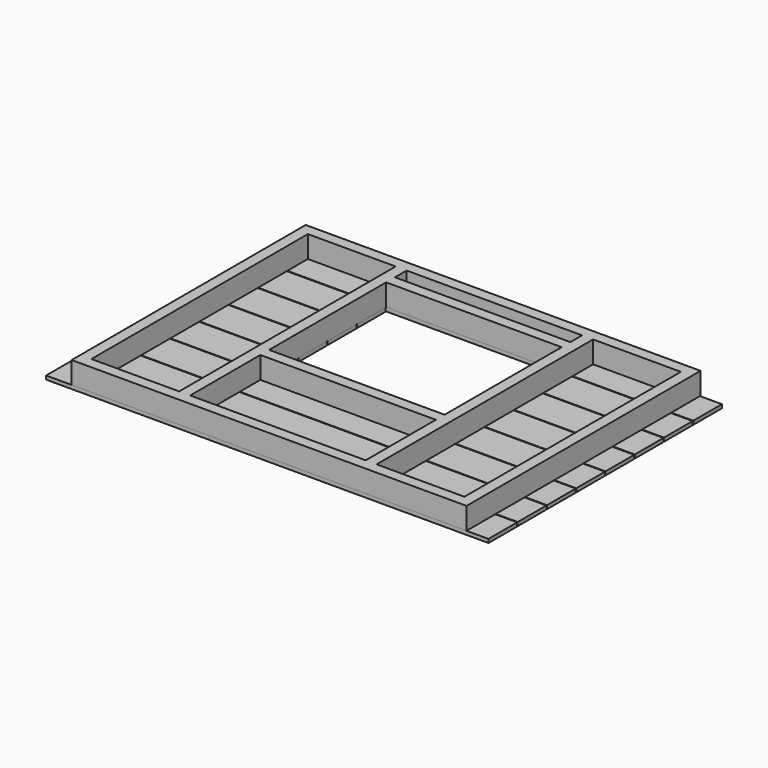
from build123d import *

# Parameters (mm, degrees)
F0_W     = 60.96
F0_H     = 3.81
F0_W_2   = 3.81
F0_H_2   = 93.98
F1_DEPTH = 7.62
F2_W     = 153.67
F2_H     = 12.446
F3_DEPTH = 1.27
F0_H_3   = 50.8
F4_DEPTH = 25.4


with BuildPart() as f1:
    # F0 (on Top) → F1 (new body)
    with BuildSketch(Plane.XY):
        Polygon((0, 101.6), (0, 97.79), (3.81, 97.79), (34.29, 97.79), (38.1, 97.79), (99.06, 97.79), (102.87, 97.79), (133.35, 97.79), (137.16, 97.79), (137.16, 101.6), align=None)
        Polygon((34.29, 97.79), (34.29, 3.81), (38.1, 3.81), (38.1, 34.29), (38.1, 38.1), (38.1, 88.9), (38.1, 92.71), (38.1, 97.79), align=None)
        with Locations((68.58, 90.805)):
            Rectangle(F0_W, F0_H)
        Polygon((99.06, 3.81), (102.87, 3.81), (102.87, 97.79), (99.06, 97.79), (99.06, 92.71), (99.06, 88.9), (99.06, 38.1), (99.06, 34.29), align=None)
        with Locations((135.255, 50.8)):
            Rectangle(F0_W_2, F0_H_2)
        with Locations((68.58, 36.195)):
            Rectangle(F0_W, F0_H)
        with Locations((1.905, 50.8)):
            Rectangle(F0_W_2, F0_H_2)
        Polygon((0, 3.81), (0, 0), (137.16, 0), (137.16, 3.81), (133.35, 3.81), (102.87, 3.81), (99.06, 3.81), (38.1, 3.81), (34.29, 3.81), (3.81, 3.81), align=None)
    extrude(amount=F1_DEPTH)


with BuildPart() as f3:
    # F2 (on Top) → F3 (new body)
    with BuildSketch(Plane.XY):
        with Locations((67.945, 6.223)):
            Rectangle(F2_W, F2_H)
        with Locations((67.945, 18.923)):
            Rectangle(F2_W, F2_H)
        with Locations((67.945, 31.623)):
            Rectangle(F2_W, F2_H)
        with Locations((67.945, 44.323)):
            Rectangle(F2_W, F2_H)
        with Locations((67.945, 57.023)):
            Rectangle(F2_W, F2_H)
        with Locations((67.945, 69.723)):
            Rectangle(F2_W, F2_H)
        with Locations((67.945, 82.423)):
            Rectangle(F2_W, F2_H)
        with Locations((67.945, 95.123)):
            Rectangle(F2_W, F2_H)
    extrude(amount=-F3_DEPTH)

    # F0 (on Top) → F4 (cut)
    with BuildSketch(Plane.XY):
        with Locations((68.58, 63.5)):
            Rectangle(F0_W, F0_H_3)
    extrude(amount=-F4_DEPTH, mode=Mode.SUBTRACT)


solid = Compound([f1.part, f3.part])
